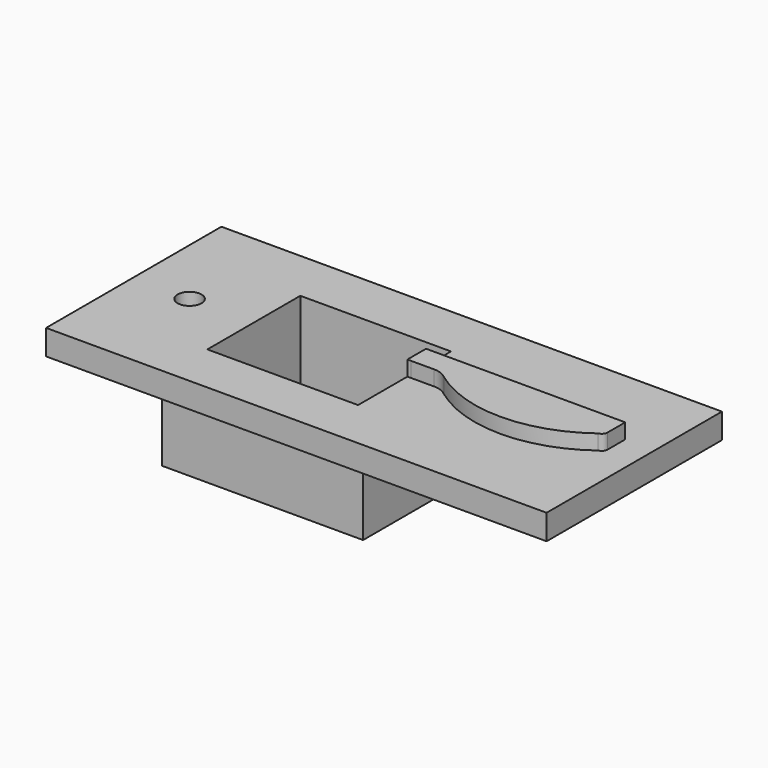
from build123d import *

# Parameters (mm, degrees)
F1_W     = 39.8526769131
F1_H     = 17.4496416003
F1_W_2   = 12
F1_H_2   = 2.154154708
F1_H_3   = 0.3318400184
F1_W_3   = 0.2365358905
F1_H_4   = 3.9093678362
F1_W_4   = 2
F2_DEPTH = 2
F3_DEPTH = 8
F4_DEPTH = 1.2
F5_DEPTH = 12.5
F6_R     = 0.95
F7_DEPTH = 8.001
F8_R     = 1.75
F8_R_2   = 0.95
F9_DEPTH = 3


with BuildPart() as f2:
    # F1 (on Top) → F2 (new body)
    with BuildSketch(Plane.XY):
        with Locations((-3.525945358, -2.3725284263)):
            Rectangle(F1_W, F1_H)
        with BuildLine():
            Line((0.3216254651, -2.5177070959), (0.1883759089, -2.5177070959))
            Line((0.1883759089, -2.5177070959), (0.1883759089, -9.095845292))
            Line((0.1883759089, -9.095845292), (-15.8116240911, -9.095845292))
            Line((-15.8116240911, -9.095845292), (-15.8116240911, 4.154154708))
            Line((-15.8116240911, 4.154154708), (0.1883759089, 4.154154708))
            Line((0.1883759089, 4.154154708), (0.1883759089, 0))
            Line((0.1883759089, 0), (14.38, 0))
            Line((14.38, 0), (14.38, -2.0960352984))
            ThreePointArc((14.38, -2.0960352984), (14.222994373, -2.5685374355), (13.8144247375, -2.8531070921))
            ThreePointArc((13.8144247375, -2.8531070921), (7.5097918652, -4.9262625681), (1.2051589929, -2.8531070921))
            ThreePointArc((1.2051589929, -2.8531070921), (0.7941518274, -2.6043780637), (0.3216254651, -2.5177070959))
        make_face(mode=Mode.SUBTRACT)
        with BuildLine():
            Line((-1.8116240911, -2.5356413379), (-1.8116240911, -7.095845292))
            Line((-1.8116240911, -7.095845292), (-13.8116240911, -7.095845292))
            Line((-13.8116240911, -7.095845292), (-13.8116240911, -4.573047873))
            Line((-13.8116240911, -4.573047873), (-14.38, -4.573047873))
            Line((-14.38, -4.573047873), (-14.38, 0))
            Line((-14.38, 0), (-13.8116240911, 0))
            Line((-13.8116240911, 0), (-13.8116240911, 2.154154708))
            Line((-13.8116240911, 2.154154708), (-1.8116240911, 2.154154708))
            Line((-1.8116240911, 2.154154708), (-1.8116240911, 0))
            Line((-1.8116240911, 0), (0.1883759089, 0))
            Line((0.1883759089, 0), (0.1883759089, 4.154154708))
            Line((0.1883759089, 4.154154708), (-15.8116240911, 4.154154708))
            Line((-15.8116240911, 4.154154708), (-15.8116240911, -9.095845292))
            Line((-15.8116240911, -9.095845292), (0.1883759089, -9.095845292))
            Line((0.1883759089, -9.095845292), (0.1883759089, -2.5177070959))
            Line((0.1883759089, -2.5177070959), (-1.5371447255, -2.5177070959))
            ThreePointArc((-1.5371447255, -2.5177070959), (-1.6746770482, -2.5221954315), (-1.8116240911, -2.5356413379))
        make_face()
        with BuildLine():
            Line((14.0481599816, -0.3318400184), (0.1883759089, -0.3318400184))
            Line((0.1883759089, -0.3318400184), (0.1883759089, -2.1858670775))
            Line((0.1883759089, -2.1858670775), (0.3216254651, -2.1858670775))
            ThreePointArc((0.3216254651, -2.1858670775), (0.9044684669, -2.2913304213), (1.4133986427, -2.5943461929))
            ThreePointArc((1.4133986427, -2.5943461929), (7.5498522098, -4.5943445782), (13.6705491966, -2.5466326064))
            ThreePointArc((13.6705491966, -2.5466326064), (13.9412759396, -2.389985906), (14.0481599816, -2.0960352984))
            Line((14.0481599816, -2.0960352984), (14.0481599816, -0.3318400184))
        make_face()
        with BuildLine():
            ThreePointArc((-2.9008357147, -2.6022639059), (-2.3804028006, -2.3361323861), (-1.8116240911, -2.201346691))
            Line((-1.8116240911, -2.201346691), (-1.8116240911, -0.3318400184))
            Line((-1.8116240911, -0.3318400184), (-13.8116240911, -0.3318400184))
            Line((-13.8116240911, -0.3318400184), (-13.8116240911, -4.2412078546))
            Line((-13.8116240911, -4.2412078546), (-4.8014899445, -4.2412078546))
            ThreePointArc((-4.8014899445, -4.2412078546), (-4.372916478, -4.1227433058), (-4.0660275776, -3.8009852162))
            Line((-4.0660275776, -3.8009852162), (-2.9008357147, -2.6022639059))
        make_face()
        with BuildLine():
            Line((-13.8116240911, -7.095845292), (-1.8116240911, -7.095845292))
            Line((-1.8116240911, -7.095845292), (-1.8116240911, -2.5356413379))
            ThreePointArc((-1.8116240911, -2.5356413379), (-2.267834406, -2.6483049616), (-2.687782017, -2.8591720937))
            Line((-2.687782017, -2.8591720937), (-4.1783316179, -4.3926136046))
            ThreePointArc((-4.1783316179, -4.3926136046), (-4.4771125311, -4.5270315227), (-4.8014899445, -4.573047873))
            Line((-4.8014899445, -4.573047873), (-13.8116240911, -4.573047873))
            Line((-13.8116240911, -4.573047873), (-13.8116240911, -7.095845292))
        make_face()
        with Locations((-7.8116240911, 1.077077354)):
            Rectangle(F1_W_2, F1_H_2)
        with BuildLine():
            Line((0.1883759089, -2.1858670775), (0.1883759089, -2.5177070959))
            Line((0.1883759089, -2.5177070959), (0.3216254651, -2.5177070959))
            ThreePointArc((0.3216254651, -2.5177070959), (0.7941518274, -2.6043780637), (1.2051589929, -2.8531070921))
            ThreePointArc((1.2051589929, -2.8531070921), (7.5097918652, -4.9262625681), (13.8144247375, -2.8531070921))
            ThreePointArc((13.8144247375, -2.8531070921), (14.222994373, -2.5685374355), (14.38, -2.0960352984))
            Line((14.38, -2.0960352984), (14.38, 0))
            Line((14.38, 0), (0.1883759089, 0))
            Line((0.1883759089, 0), (0.1883759089, -0.3318400184))
            Line((0.1883759089, -0.3318400184), (14.0481599816, -0.3318400184))
            Line((14.0481599816, -0.3318400184), (14.0481599816, -2.0960352984))
            ThreePointArc((14.0481599816, -2.0960352984), (13.9412759396, -2.389985906), (13.6705491966, -2.5466326064))
            ThreePointArc((13.6705491966, -2.5466326064), (7.5498522098, -4.5943445782), (1.4133986427, -2.5943461929))
            ThreePointArc((1.4133986427, -2.5943461929), (0.9044684669, -2.2913304213), (0.3216254651, -2.1858670775))
            Line((0.3216254651, -2.1858670775), (0.1883759089, -2.1858670775))
        make_face()
        with BuildLine():
            ThreePointArc((-2.687782017, -2.8591720937), (-2.267834406, -2.6483049616), (-1.8116240911, -2.5356413379))
            Line((-1.8116240911, -2.5356413379), (-1.8116240911, -2.201346691))
            ThreePointArc((-1.8116240911, -2.201346691), (-2.3804028006, -2.3361323861), (-2.9008357147, -2.6022639059))
            Line((-2.9008357147, -2.6022639059), (-4.0660275776, -3.8009852162))
            ThreePointArc((-4.0660275776, -3.8009852162), (-4.372916478, -4.1227433058), (-4.8014899445, -4.2412078546))
            Line((-4.8014899445, -4.2412078546), (-13.8116240911, -4.2412078546))
            Line((-13.8116240911, -4.2412078546), (-13.8116240911, -4.573047873))
            Line((-13.8116240911, -4.573047873), (-4.8014899445, -4.573047873))
            ThreePointArc((-4.8014899445, -4.573047873), (-4.4771125311, -4.5270315227), (-4.1783316179, -4.3926136046))
            Line((-4.1783316179, -4.3926136046), (-2.687782017, -2.8591720937))
        make_face()
        with Locations((-7.8116240911, -0.1659200092)):
            Rectangle(F1_W_2, F1_H_3)
        with BuildLine():
            Line((-1.8116240911, -0.3318400184), (-1.8116240911, -2.201346691))
            ThreePointArc((-1.8116240911, -2.201346691), (-1.6746024832, -2.1897400531), (-1.5371447255, -2.1858670775))
            Line((-1.5371447255, -2.1858670775), (0.1883759089, -2.1858670775))
            Line((0.1883759089, -2.1858670775), (0.1883759089, -0.3318400184))
            Line((0.1883759089, -0.3318400184), (-1.8116240911, -0.3318400184))
        make_face()
        Polygon((-14.38, -4.573047873), (-13.8116240911, -4.573047873), (-13.8116240911, -4.2412078546), (-14.0481599816, -4.2412078546), (-14.0481599816, -0.3318400184), (-13.8116240911, -0.3318400184), (-13.8116240911, 0), (-14.38, 0), align=None)
        with Locations((-13.9298920363, -2.2865239365)):
            Rectangle(F1_W_3, F1_H_4)
        with BuildLine():
            Line((-1.8116240911, -2.201346691), (-1.8116240911, -2.5356413379))
            ThreePointArc((-1.8116240911, -2.5356413379), (-1.6746770482, -2.5221954315), (-1.5371447255, -2.5177070959))
            Line((-1.5371447255, -2.5177070959), (0.1883759089, -2.5177070959))
            Line((0.1883759089, -2.5177070959), (0.1883759089, -2.1858670775))
            Line((0.1883759089, -2.1858670775), (-1.5371447255, -2.1858670775))
            ThreePointArc((-1.5371447255, -2.1858670775), (-1.6746024832, -2.1897400531), (-1.8116240911, -2.201346691))
        make_face()
        with Locations((-0.8116240911, -0.1659200092)):
            Rectangle(F1_W_4, F1_H_3)
    extrude(amount=-F2_DEPTH)

    # F1 (on Top) → F3 (join)
    with BuildSketch(Plane.XY):
        with BuildLine():
            Line((-1.8116240911, -2.5356413379), (-1.8116240911, -7.095845292))
            Line((-1.8116240911, -7.095845292), (-13.8116240911, -7.095845292))
            Line((-13.8116240911, -7.095845292), (-13.8116240911, -4.573047873))
            Line((-13.8116240911, -4.573047873), (-14.38, -4.573047873))
            Line((-14.38, -4.573047873), (-14.38, 0))
            Line((-14.38, 0), (-13.8116240911, 0))
            Line((-13.8116240911, 0), (-13.8116240911, 2.154154708))
            Line((-13.8116240911, 2.154154708), (-1.8116240911, 2.154154708))
            Line((-1.8116240911, 2.154154708), (-1.8116240911, 0))
            Line((-1.8116240911, 0), (0.1883759089, 0))
            Line((0.1883759089, 0), (0.1883759089, 4.154154708))
            Line((0.1883759089, 4.154154708), (-15.8116240911, 4.154154708))
            Line((-15.8116240911, 4.154154708), (-15.8116240911, -9.095845292))
            Line((-15.8116240911, -9.095845292), (0.1883759089, -9.095845292))
            Line((0.1883759089, -9.095845292), (0.1883759089, -2.5177070959))
            Line((0.1883759089, -2.5177070959), (-1.5371447255, -2.5177070959))
            ThreePointArc((-1.5371447255, -2.5177070959), (-1.6746770482, -2.5221954315), (-1.8116240911, -2.5356413379))
        make_face()
        with BuildLine():
            ThreePointArc((-2.9008357147, -2.6022639059), (-2.3804028006, -2.3361323861), (-1.8116240911, -2.201346691))
            Line((-1.8116240911, -2.201346691), (-1.8116240911, -0.3318400184))
            Line((-1.8116240911, -0.3318400184), (-13.8116240911, -0.3318400184))
            Line((-13.8116240911, -0.3318400184), (-13.8116240911, -4.2412078546))
            Line((-13.8116240911, -4.2412078546), (-4.8014899445, -4.2412078546))
            ThreePointArc((-4.8014899445, -4.2412078546), (-4.372916478, -4.1227433058), (-4.0660275776, -3.8009852162))
            Line((-4.0660275776, -3.8009852162), (-2.9008357147, -2.6022639059))
        make_face()
        with BuildLine():
            Line((-1.8116240911, -0.3318400184), (-1.8116240911, -2.201346691))
            ThreePointArc((-1.8116240911, -2.201346691), (-1.6746024832, -2.1897400531), (-1.5371447255, -2.1858670775))
            Line((-1.5371447255, -2.1858670775), (0.1883759089, -2.1858670775))
            Line((0.1883759089, -2.1858670775), (0.1883759089, -0.3318400184))
            Line((0.1883759089, -0.3318400184), (-1.8116240911, -0.3318400184))
        make_face()
        with Locations((-0.8116240911, -0.1659200092)):
            Rectangle(F1_W_4, F1_H_3)
        with Locations((-7.8116240911, -0.1659200092)):
            Rectangle(F1_W_2, F1_H_3)
        with Locations((-7.8116240911, 1.077077354)):
            Rectangle(F1_W_2, F1_H_2)
        with BuildLine():
            ThreePointArc((-2.687782017, -2.8591720937), (-2.267834406, -2.6483049616), (-1.8116240911, -2.5356413379))
            Line((-1.8116240911, -2.5356413379), (-1.8116240911, -2.201346691))
            ThreePointArc((-1.8116240911, -2.201346691), (-2.3804028006, -2.3361323861), (-2.9008357147, -2.6022639059))
            Line((-2.9008357147, -2.6022639059), (-4.0660275776, -3.8009852162))
            ThreePointArc((-4.0660275776, -3.8009852162), (-4.372916478, -4.1227433058), (-4.8014899445, -4.2412078546))
            Line((-4.8014899445, -4.2412078546), (-13.8116240911, -4.2412078546))
            Line((-13.8116240911, -4.2412078546), (-13.8116240911, -4.573047873))
            Line((-13.8116240911, -4.573047873), (-4.8014899445, -4.573047873))
            ThreePointArc((-4.8014899445, -4.573047873), (-4.4771125311, -4.5270315227), (-4.1783316179, -4.3926136046))
            Line((-4.1783316179, -4.3926136046), (-2.687782017, -2.8591720937))
        make_face()
        with BuildLine():
            Line((-13.8116240911, -7.095845292), (-1.8116240911, -7.095845292))
            Line((-1.8116240911, -7.095845292), (-1.8116240911, -2.5356413379))
            ThreePointArc((-1.8116240911, -2.5356413379), (-2.267834406, -2.6483049616), (-2.687782017, -2.8591720937))
            Line((-2.687782017, -2.8591720937), (-4.1783316179, -4.3926136046))
            ThreePointArc((-4.1783316179, -4.3926136046), (-4.4771125311, -4.5270315227), (-4.8014899445, -4.573047873))
            Line((-4.8014899445, -4.573047873), (-13.8116240911, -4.573047873))
            Line((-13.8116240911, -4.573047873), (-13.8116240911, -7.095845292))
        make_face()
        with BuildLine():
            Line((-1.8116240911, -2.201346691), (-1.8116240911, -2.5356413379))
            ThreePointArc((-1.8116240911, -2.5356413379), (-1.6746770482, -2.5221954315), (-1.5371447255, -2.5177070959))
            Line((-1.5371447255, -2.5177070959), (0.1883759089, -2.5177070959))
            Line((0.1883759089, -2.5177070959), (0.1883759089, -2.1858670775))
            Line((0.1883759089, -2.1858670775), (-1.5371447255, -2.1858670775))
            ThreePointArc((-1.5371447255, -2.1858670775), (-1.6746024832, -2.1897400531), (-1.8116240911, -2.201346691))
        make_face()
        Polygon((-14.38, -4.573047873), (-13.8116240911, -4.573047873), (-13.8116240911, -4.2412078546), (-14.0481599816, -4.2412078546), (-14.0481599816, -0.3318400184), (-13.8116240911, -0.3318400184), (-13.8116240911, 0), (-14.38, 0), align=None)
        with Locations((-13.9298920363, -2.2865239365)):
            Rectangle(F1_W_3, F1_H_4)
    extrude(amount=-F3_DEPTH)

    # F1 (on Top) → F4 (join)
    with BuildSketch(Plane.XY):
        with BuildLine():
            ThreePointArc((-2.9008357147, -2.6022639059), (-2.3804028006, -2.3361323861), (-1.8116240911, -2.201346691))
            Line((-1.8116240911, -2.201346691), (-1.8116240911, -0.3318400184))
            Line((-1.8116240911, -0.3318400184), (-13.8116240911, -0.3318400184))
            Line((-13.8116240911, -0.3318400184), (-13.8116240911, -4.2412078546))
            Line((-13.8116240911, -4.2412078546), (-4.8014899445, -4.2412078546))
            ThreePointArc((-4.8014899445, -4.2412078546), (-4.372916478, -4.1227433058), (-4.0660275776, -3.8009852162))
            Line((-4.0660275776, -3.8009852162), (-2.9008357147, -2.6022639059))
        make_face()
        with BuildLine():
            Line((-1.8116240911, -0.3318400184), (-1.8116240911, -2.201346691))
            ThreePointArc((-1.8116240911, -2.201346691), (-1.6746024832, -2.1897400531), (-1.5371447255, -2.1858670775))
            Line((-1.5371447255, -2.1858670775), (0.1883759089, -2.1858670775))
            Line((0.1883759089, -2.1858670775), (0.1883759089, -0.3318400184))
            Line((0.1883759089, -0.3318400184), (-1.8116240911, -0.3318400184))
        make_face()
        with BuildLine():
            Line((14.0481599816, -0.3318400184), (0.1883759089, -0.3318400184))
            Line((0.1883759089, -0.3318400184), (0.1883759089, -2.1858670775))
            Line((0.1883759089, -2.1858670775), (0.3216254651, -2.1858670775))
            ThreePointArc((0.3216254651, -2.1858670775), (0.9044684669, -2.2913304213), (1.4133986427, -2.5943461929))
            ThreePointArc((1.4133986427, -2.5943461929), (7.5498522098, -4.5943445782), (13.6705491966, -2.5466326064))
            ThreePointArc((13.6705491966, -2.5466326064), (13.9412759396, -2.389985906), (14.0481599816, -2.0960352984))
            Line((14.0481599816, -2.0960352984), (14.0481599816, -0.3318400184))
        make_face()
    extrude(amount=F4_DEPTH)

    # F1 (on Top) → F5 (cut, symmetric)
    with BuildSketch(Plane.XY):
        with Locations((-7.8116240911, 1.077077354)):
            Rectangle(F1_W_2, F1_H_2)
        with Locations((-7.8116240911, -0.1659200092)):
            Rectangle(F1_W_2, F1_H_3)
        with BuildLine():
            ThreePointArc((-2.9008357147, -2.6022639059), (-2.3804028006, -2.3361323861), (-1.8116240911, -2.201346691))
            Line((-1.8116240911, -2.201346691), (-1.8116240911, -0.3318400184))
            Line((-1.8116240911, -0.3318400184), (-13.8116240911, -0.3318400184))
            Line((-13.8116240911, -0.3318400184), (-13.8116240911, -4.2412078546))
            Line((-13.8116240911, -4.2412078546), (-4.8014899445, -4.2412078546))
            ThreePointArc((-4.8014899445, -4.2412078546), (-4.372916478, -4.1227433058), (-4.0660275776, -3.8009852162))
            Line((-4.0660275776, -3.8009852162), (-2.9008357147, -2.6022639059))
        make_face()
        with BuildLine():
            Line((-13.8116240911, -7.095845292), (-1.8116240911, -7.095845292))
            Line((-1.8116240911, -7.095845292), (-1.8116240911, -2.5356413379))
            ThreePointArc((-1.8116240911, -2.5356413379), (-2.267834406, -2.6483049616), (-2.687782017, -2.8591720937))
            Line((-2.687782017, -2.8591720937), (-4.1783316179, -4.3926136046))
            ThreePointArc((-4.1783316179, -4.3926136046), (-4.4771125311, -4.5270315227), (-4.8014899445, -4.573047873))
            Line((-4.8014899445, -4.573047873), (-13.8116240911, -4.573047873))
            Line((-13.8116240911, -4.573047873), (-13.8116240911, -7.095845292))
        make_face()
        with BuildLine():
            ThreePointArc((-2.687782017, -2.8591720937), (-2.267834406, -2.6483049616), (-1.8116240911, -2.5356413379))
            Line((-1.8116240911, -2.5356413379), (-1.8116240911, -2.201346691))
            ThreePointArc((-1.8116240911, -2.201346691), (-2.3804028006, -2.3361323861), (-2.9008357147, -2.6022639059))
            Line((-2.9008357147, -2.6022639059), (-4.0660275776, -3.8009852162))
            ThreePointArc((-4.0660275776, -3.8009852162), (-4.372916478, -4.1227433058), (-4.8014899445, -4.2412078546))
            Line((-4.8014899445, -4.2412078546), (-13.8116240911, -4.2412078546))
            Line((-13.8116240911, -4.2412078546), (-13.8116240911, -4.573047873))
            Line((-13.8116240911, -4.573047873), (-4.8014899445, -4.573047873))
            ThreePointArc((-4.8014899445, -4.573047873), (-4.4771125311, -4.5270315227), (-4.1783316179, -4.3926136046))
            Line((-4.1783316179, -4.3926136046), (-2.687782017, -2.8591720937))
        make_face()
    extrude(amount=F5_DEPTH, both=True, mode=Mode.SUBTRACT)

    # F6 (on face) → F7 (cut, through all)
    with BuildSketch(Plane.XY):
        with Locations((-18.9266037196, -2.470845292)):
            Circle(F6_R)
    extrude(amount=-F7_DEPTH, mode=Mode.SUBTRACT)

    # F8 (on face) → F9 (join)
    with BuildSketch(Plane(origin=(0, 0, -2), x_dir=(1, 0, 0), z_dir=(0, 0, -1))):
        with Locations((-18.9266037196, 2.470845292)):
            Circle(F8_R)
        with Locations((-18.9266037196, 2.470845292)):
            Circle(F8_R_2, mode=Mode.SUBTRACT)
    extrude(amount=F9_DEPTH)


solid = f2.part
